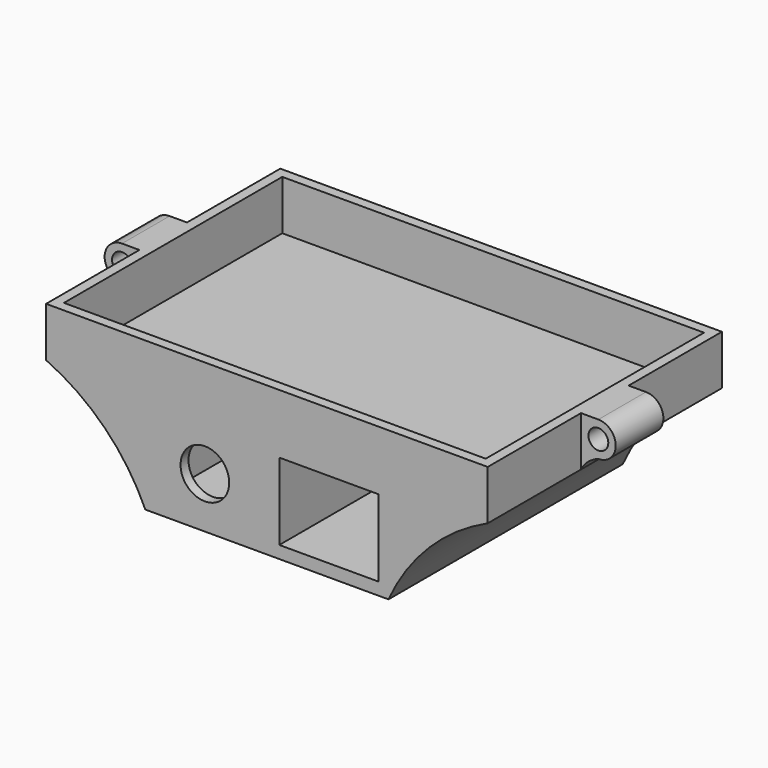
from build123d import *

# Parameters (mm, degrees)
F1_DEPTH       = 29.5
F1_DEPTH_BACK  = 29.5
F2_R           = 2
F3_DEPTH       = 6
F3_DEPTH_BACK  = 6
F4_W           = 85
F4_H           = 55
F5_DEPTH       = 10
F6_W           = 20
F6_H           = 15.5
F7_DEPTH       = 29.5
F7_DEPTH_BACK  = 27.5
F8_W           = 20
F8_H           = 15.5
F9_DEPTH       = 57
F10_R          = 4.9
F11_DEPTH      = 80
F11_DEPTH_BACK = 80


with BuildPart() as f1:
    # F0 (on Front) → F1 (new body, two sides)
    with BuildSketch(Plane.XZ) as f1_sk:
        with BuildLine():
            Line((44.5, 15), (-44.5, 15))
            Line((-44.5, 15), (-44.5, 5))
            ThreePointArc((-44.5, 5), (-32.6732418632, -3.1732418632), (-24.5, -15))
            Line((-24.5, -15), (0, -15))
            Line((0, -15), (24.5, -15))
            ThreePointArc((24.5, -15), (32.6732418632, -3.1732418632), (44.5, 5))
            Line((44.5, 5), (44.5, 15))
        make_face()
    extrude(amount=F1_DEPTH)
    extrude(f1_sk.sketch, amount=-F1_DEPTH_BACK)

    # F2 (on Front) → F3 (join, two sides)
    with BuildSketch(Plane.XZ) as f3_sk:
        with BuildLine():
            Line((48, 15), (44.5, 15))
            Line((44.5, 15), (44.5, 5))
            ThreePointArc((44.5, 5), (45.9503951439, 6.8495389988), (48, 8))
            ThreePointArc((48, 8), (51.5, 11.5), (48, 15))
        make_face()
        with Locations((48, 11.5)):
            Circle(F2_R, mode=Mode.SUBTRACT)
        with BuildLine():
            Line((-44.5, 5), (-44.5, 15))
            Line((-44.5, 15), (-48, 15))
            ThreePointArc((-48, 15), (-51.5, 11.5), (-48, 8))
            ThreePointArc((-48, 8), (-45.9503951439, 6.8495389988), (-44.5, 5))
        make_face()
        with Locations((-48, 11.5)):
            Circle(F2_R, mode=Mode.SUBTRACT)
    extrude(amount=F3_DEPTH)
    extrude(f3_sk.sketch, amount=-F3_DEPTH_BACK)

    # F4 (on face) → F5 (cut)
    with BuildSketch(Plane.XY.offset(15)):
        Rectangle(F4_W, F4_H)
    extrude(amount=-F5_DEPTH, mode=Mode.SUBTRACT)

    # F6 (on Front) → F7 (cut, two sides)
    with BuildSketch(Plane.XZ) as f7_sk:
        with Locations((-12.5, -4.75)):
            Rectangle(F6_W, F6_H)
    extrude(amount=-F7_DEPTH, mode=Mode.SUBTRACT)
    extrude(f7_sk.sketch, amount=F7_DEPTH_BACK, mode=Mode.SUBTRACT)

    # F8 (on face) → F9 (cut)
    with BuildSketch(Plane.XZ.offset(29.5)):
        with Locations((12.5, -4.75)):
            Rectangle(F8_W, F8_H)
    extrude(amount=-F9_DEPTH, mode=Mode.SUBTRACT)

    # F10 (on Front) → F11 (cut, two sides)
    with BuildSketch(Plane.XZ) as f11_sk:
        with Locations((-12.5, -4.75)):
            Circle(F10_R)
        with Locations((12.5, -4.75)):
            Circle(F10_R)
    extrude(amount=-F11_DEPTH, mode=Mode.SUBTRACT)
    extrude(f11_sk.sketch, amount=F11_DEPTH_BACK, mode=Mode.SUBTRACT)


solid = f1.part
